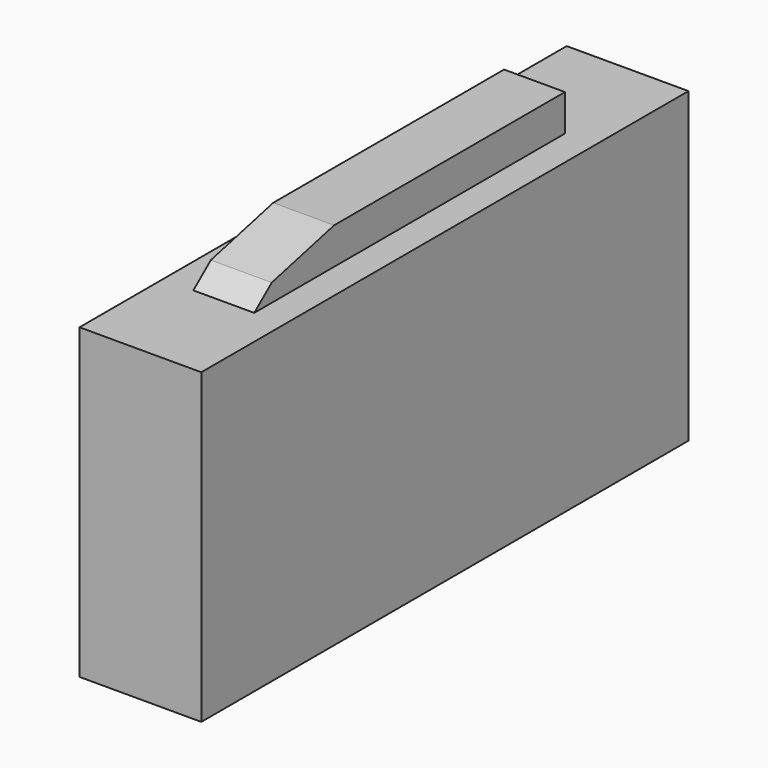
from build123d import *

# Parameters (mm, degrees)
F0_W     = 25.4
F0_H     = 76.2
F1_DEPTH = 127
F3_DEPTH = 177.8
F4_W     = 24.25904
F4_H     = 7.62
F5_DEPTH = 25.4


with BuildPart() as f1:
    # F0 (on Front) → F1 (new body)
    with BuildSketch(Plane.XZ):
        Rectangle(F0_W, F0_H)
    extrude(amount=F1_DEPTH)

    # F2 (on face) → F3 (cut)
    with BuildSketch(Plane.XZ.offset(127)):
        Polygon((6.35, 26.099518), (12.7, 26.099518), (12.7, 38.1), (-12.7, 38.1), (-12.7, 26.099518), (-6.35, 26.099518), (-6.35, 33.719518), (6.35, 33.719518), align=None)
    extrude(amount=-F3_DEPTH, mode=Mode.SUBTRACT)

    # F4 (on face) → F5 (cut)
    with BuildSketch(Plane.YZ.offset(6.35)):
        Polygon((-100.70353, 29.807648), (-84.444813, 33.719518), (-127, 33.719518), (-127, 26.099518), (-105.267383, 26.099518), align=None)
        with Locations((-12.12952, 29.909518)):
            Rectangle(F4_W, F4_H)
    extrude(amount=-F5_DEPTH, mode=Mode.SUBTRACT)


solid = f1.part
